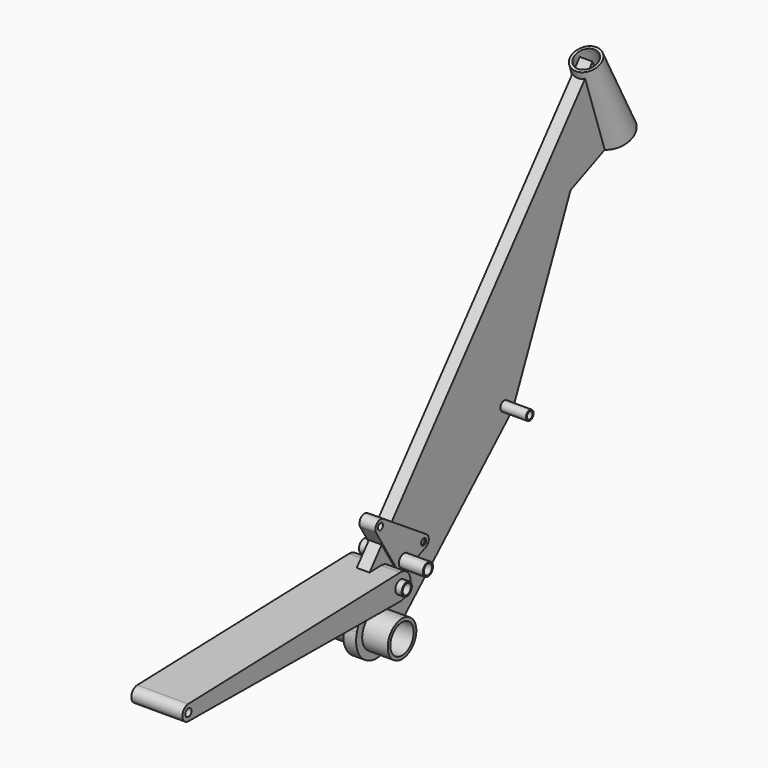
from build123d import *

# Parameters (mm, degrees)
F3_R      = 28
F3_R_2    = 23
F4_DEPTH  = 50
F6_R      = 28
F6_R_2    = 10
F6_R_3    = 17.7221202457
F6_R_4    = 7.5
F7_DEPTH  = 10
F8_R      = 7.5
F8_R_2    = 5.5
F8_R_3    = 10
F8_R_4    = 8
F9_DEPTH  = 50
F10_R     = 6
F10_R_2   = 10
F11_DEPTH = 40
F12_R     = 5
F13_DEPTH = 12.5


with BuildPart() as f2:
    # F1 (on Right) → F2 (revolve)
    with BuildSketch(Plane.YZ):
        Polygon((-266.9396509428, 419.0074256556), (-262.3371266756, 420.961081298), (-264.290782318, 425.5636055653), (-303.4451822721, 539.5596809842), (-305.3988379146, 544.1622052514), (-309.3506002996, 542.4847816393), align=None)
    revolve(axis=Axis((0, -167.686068361, 264.5190829362), (0, 0.3907311285, -0.9205048535)))



with BuildPart() as f4:
    # F3 (on Right) → F4 (new body, symmetric)
    with BuildSketch(Plane.YZ):
        with Locations((-712.2900029792, -60)):
            Circle(F3_R)
        with Locations((-712.2900029792, -60)):
            Circle(F3_R_2, mode=Mode.SUBTRACT)
    extrude(amount=F4_DEPTH, both=True)


with BuildPart() as f2_1:
    add(f2.part)

    add(f4.part)  # F7 merges F4
    # F6 (on Right) → F7 (join, symmetric)
    with BuildSketch(Plane.YZ):
        with BuildLine():
            Line((-731.7016667887, 13.3829006523), (-750.5455547252, -48.3161324636))
            ThreePointArc((-750.5455547252, -48.3161324636), (-733.4565506907, -93.9407904737), (-684.9663979592, -89.2133635296))
            Line((-684.9663979592, -89.2133635296), (-448.5782004692, 131.8833182352))
            ThreePointArc((-448.5782004692, 131.8833182352), (-445.9313119715, 134.9130143122), (-443.9443170247, 138.4111464022))
            Line((-443.9443170247, 138.4111464022), (-332.2900029792, 391.2678469857))
            Line((-332.2900029792, 391.2678469857), (-238.4040004858, 431.1200906387))
            Line((-238.4040004858, 431.1200906387), (-289.2900029792, 551))
            Line((-289.2900029792, 551), (-726.1114012461, 23.7596289963))
            ThreePointArc((-726.1114012461, 23.7596289963), (-729.4211643053, 18.8485121291), (-731.7016667887, 13.3829006523))
        make_face()
        with Locations((-712.2900029792, -60)):
            Circle(F6_R, mode=Mode.SUBTRACT)
        with Locations((-703.0100029792, 4.62)):
            Circle(F6_R_2, mode=Mode.SUBTRACT)
        with Locations((-661.6500029792, 15.16)):
            Circle(F6_R_3, mode=Mode.SUBTRACT)
        with Locations((-462.2400029792, 146.49)):
            Circle(F6_R_4, mode=Mode.SUBTRACT)
    extrude(amount=F7_DEPTH, both=True)

    # F8 (on Right) → F9 (join, symmetric)
    with BuildSketch(Plane.YZ):
        with Locations((-462.2400029792, 146.49)):
            Circle(F8_R)
        with Locations((-462.2400029792, 146.49)):
            Circle(F8_R_2, mode=Mode.SUBTRACT)
        with Locations((-703.0100029792, 4.62)):
            Circle(F8_R_3)
        with Locations((-703.0100029792, 4.62)):
            Circle(F8_R_4, mode=Mode.SUBTRACT)
    extrude(amount=F9_DEPTH, both=True)


with BuildPart() as f9:
    # F8 (on Right) → F9, piece 2 (new body, symmetric)
    with BuildSketch(Plane.YZ):
        with Locations((-661.6500029792, 15.16)):
            Circle(F8_R_3)
        with Locations((-661.6500029792, 15.16)):
            Circle(F8_R_4, mode=Mode.SUBTRACT)
    extrude(amount=F9_DEPTH, both=True)


with BuildPart() as f11:
    # F10 (on Right) → F11 (new body, symmetric)
    with BuildSketch(Plane.YZ):
        with BuildLine():
            ThreePointArc((-1118.2409705034, 11.9944485346), (-1129.875254782, -0.1336252265), (-1117.9737697369, -11.9996016952))
            Line((-1117.9737697369, -11.9996016952), (-723.5295867281, -15.2134733907))
            ThreePointArc((-723.5295867281, -15.2134733907), (-727.1075189679, -2.0886442216), (-714.7700029792, -7.82))
            ThreePointArc((-714.7700029792, -7.82), (-716.5782514785, -12.7040520938), (-721.1310602738, -15.2330162224))
            Line((-721.1310602738, -15.2330162224), (-703.172954553, -15.3793361586))
            ThreePointArc((-703.172954553, -15.3793361586), (-683.0112429969, 4.8427087109), (-703.6182891638, 24.6107475577))
            Line((-703.6182891638, 24.6107475577), (-1118.2409705034, 11.9944485346))
        make_face()
        with Locations((-1117.8759987926, 0)):
            Circle(F10_R, mode=Mode.SUBTRACT)
        with Locations((-703.0100029792, 4.62)):
            Circle(F10_R_2, mode=Mode.SUBTRACT)
        with BuildLine():
            ThreePointArc((-714.7700029792, -7.82), (-727.1075189679, -2.0886442216), (-723.5295867281, -15.2134733907))
            Line((-723.5295867281, -15.2134733907), (-721.1310602738, -15.2330162224))
            ThreePointArc((-721.1310602738, -15.2330162224), (-716.5782514785, -12.7040520938), (-714.7700029792, -7.82))
        make_face()
        with BuildLine():
            Line((-721.1310602738, -15.2330162224), (-723.5295867281, -15.2134733907))
            ThreePointArc((-723.5295867281, -15.2134733907), (-722.3311098193, -15.3197510595), (-721.1310602738, -15.2330162224))
        make_face()
    extrude(amount=F11_DEPTH, both=True)


with BuildPart() as f13:
    # F12 (on Right) → F13 (new body, symmetric)
    with BuildSketch(Plane.YZ):
        with BuildLine():
            Line((-617.5260159471, 33.5056032991), (-702.0860159471, 89.1056032991))
            ThreePointArc((-702.0860159471, 89.1056032991), (-714.5326195713, 87.9375672187), (-716.1135175471, 75.5366393642))
            Line((-716.1135175471, 75.5366393642), (-674.450274831, 7.3399590463))
            ThreePointArc((-674.450274831, 7.3399590463), (-666.3946667831, 0.9301663612), (-656.1042532693, 1.2228317024))
            Line((-656.1042532693, 1.2228317024), (-619.3228365059, 15.8585544683))
            ThreePointArc((-619.3228365059, 15.8585544683), (-613.0714398267, 24.1370384009), (-617.5260159471, 33.5056032991))
        make_face()
        with Locations((-623.0200029792, 25.15)):
            Circle(F12_R, mode=Mode.SUBTRACT)
        with Locations((-707.5800029792, 80.75)):
            Circle(F12_R, mode=Mode.SUBTRACT)
    extrude(amount=F13_DEPTH, both=True)


solid = Compound([f2_1.part, f9.part, f11.part, f13.part])
